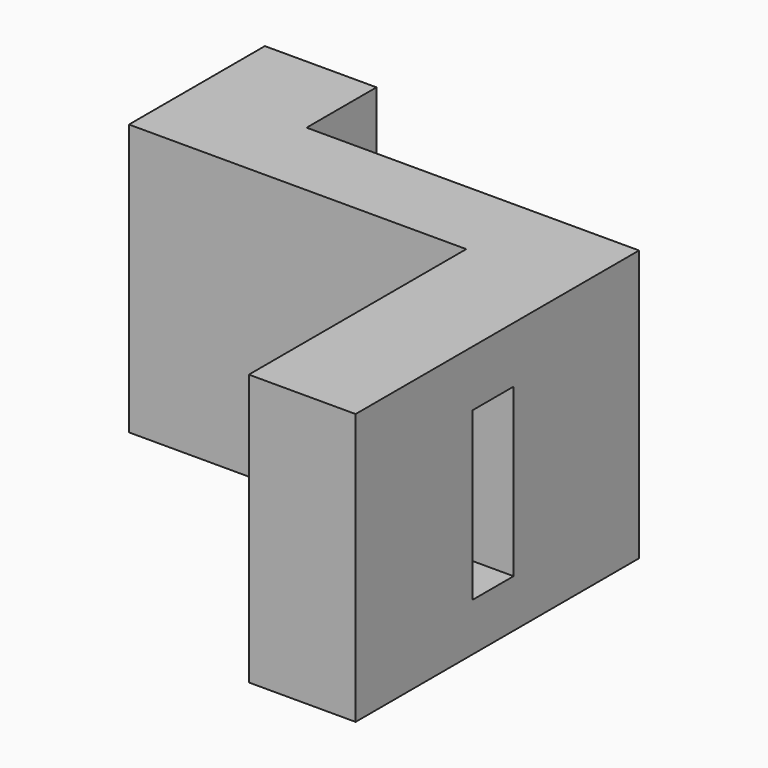
from build123d import *

# Parameters (mm, degrees)
F1_DEPTH = 50
F2_W     = 9.416695
F2_H     = 30.791057
F3_DEPTH = 25


with BuildPart() as f1:
    # F0 (on Top) → F1 (new body)
    with BuildSketch(Plane.XY):
        Polygon((-99.156201, 51.032986), (-119.748466, 51.032986), (-119.748466, 19.696943), (-57.524025, 19.696943), (-57.524025, -30.440733), (-37.827082, -30.440733), (-37.827082, 34.917306), (-99.156201, 34.917306), align=None)
    extrude(amount=F1_DEPTH)

    # F2 (on face) → F3 (cut)
    with BuildSketch(Plane.YZ.offset(-37.827082)):
        with Locations((1.276812, 24.256223)):
            Rectangle(F2_W, F2_H)
    extrude(amount=-F3_DEPTH, mode=Mode.SUBTRACT)


solid = f1.part
